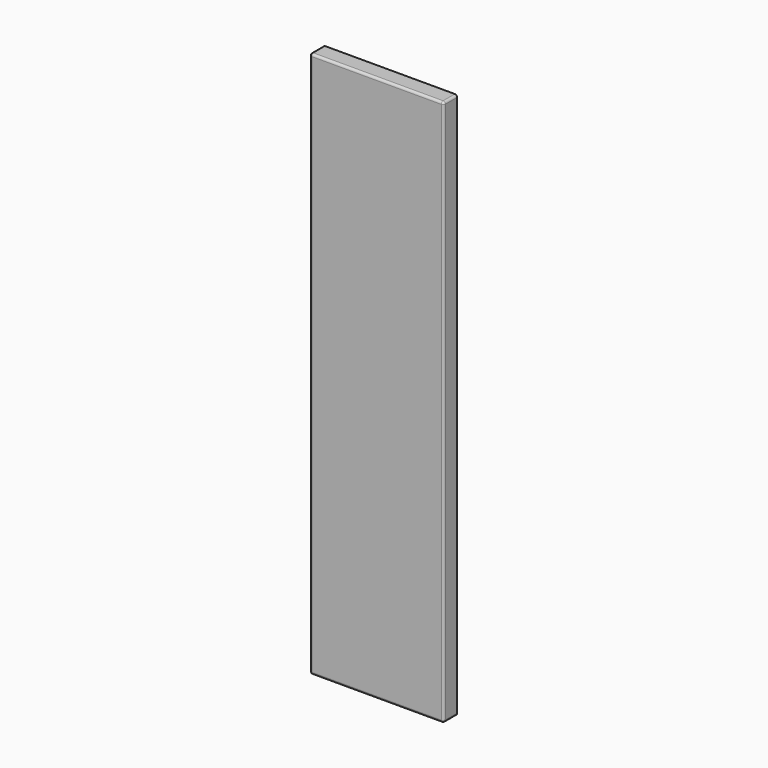
from build123d import *

# Parameters (mm, degrees)
F0_W     = 294
F0_H     = 1200
F1_DEPTH = 37.2
F2_R     = 5


with BuildPart() as f1:
    # F0 (on Front) → F1 (new body)
    with BuildSketch(Plane.XZ):
        Rectangle(F0_W, F0_H)
    extrude(amount=F1_DEPTH)

    # F2
    f2_edges = [f1.edges().sort_by_distance(p)[0] for p in [
        (147, -37.2, 0),
        (0, -37.2, 600),
        (-147, -37.2, 0),
        (0, -37.2, -600),
        (-147, -18.6, 600),
        (147, -18.6, 600),
        (147, -18.6, -600),
        (-147, -18.6, -600),
    ]]
    fillet(f2_edges, radius=F2_R)


solid = f1.part
